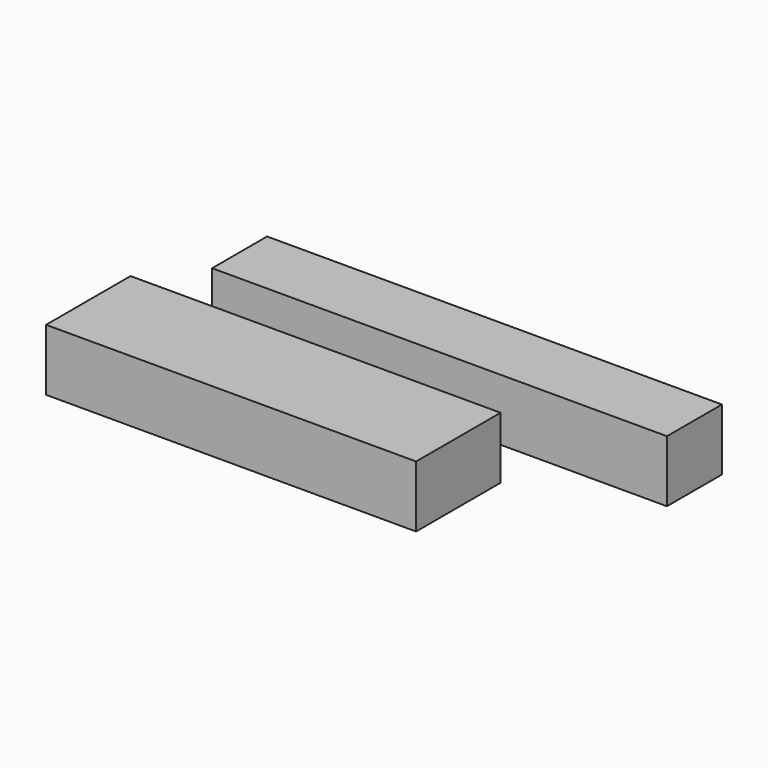
from build123d import *

# Parameters (mm, degrees)
F0_W     = 187.326059
F0_H     = 28.302781
F0_W_2   = 152.4
F0_H_2   = 43.473609
F1_DEPTH = 25.4


with BuildPart() as f1:
    # F0 (on Top) → F1 (new body)
    with BuildSketch(Plane.XY):
        with Locations((34.985534, 46.408355)):
            Rectangle(F0_W, F0_H)
        with Locations((0.448623, -10.142288)):
            Rectangle(F0_W_2, F0_H_2)
    extrude(amount=F1_DEPTH)


solid = f1.part
